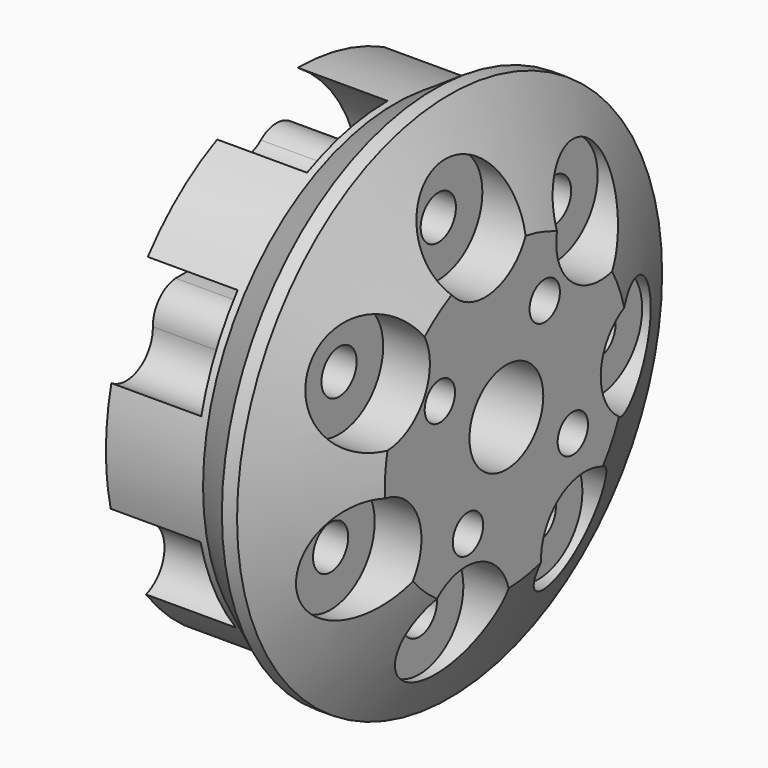
from build123d import *

# Parameters (mm, degrees)
F2_R      = 1.8415
F3_DEPTH  = 7.5184
F4_R      = 1.8415
F5_DEPTH  = 17.4508
F7_R      = 4.6101
F8_DEPTH  = 3.9116
F9_R      = 3.8608
F9_R_2    = 1.5875
F10_DEPTH = 17.4508


with BuildPart() as f1:
    # F0 (on Top) → F1 (revolve)
    with BuildSketch(Plane.XY):
        Polygon((17.4498, -12.7), (17.4498, 0), (11.43, 0), (11.43, -11.811), (0, -11.811), (0, -20.066), (8.128, -20.066), (11.43, -22.225), (12.7, -22.225), align=None)
    revolve(axis=Axis((20.313933, 0, 0), (-1, 0, 0)))

    # F2 (on Right) → F3 (cut)
    with BuildSketch(Plane.YZ):
        with BuildLine():
            ThreePointArc((2.024468, 11.636204), (4.042106, 10.179013), (6.509765, 9.855084))
            ThreePointArc((6.509765, 9.855084), (4.390168, 15.68432), (0, 20.066))
            ThreePointArc((0, 20.066), (-4.734143, 21.484435), (-8.433678, 18.20762))
            ThreePointArc((-8.433678, 18.20762), (-6.723784, 15.872719), (-3.862274, 16.305458))
            ThreePointArc((-3.862274, 16.305458), (-2.055952, 16.890868), (-0.345138, 16.067084))
            ThreePointArc((-0.345138, 16.067084), (1.117901, 14.000443), (2.024468, 11.636204))
        make_face()
        with Locations((-2.228566, 14.344011)):
            Circle(F2_R)
        with BuildLine():
            ThreePointArc((-7.835316, 8.837847), (-5.438061, 9.506757), (-3.646243, 11.234083))
            ThreePointArc((-3.646243, 11.234083), (-9.525271, 13.211385), (-15.688231, 12.510946))
            ThreePointArc((-15.688231, 12.510946), (-19.748898, 9.694024), (-19.493603, 4.758551))
            ThreePointArc((-19.493603, 4.758551), (-16.602002, 4.639613), (-15.156209, 7.146639))
            ThreePointArc((-15.156209, 7.146639), (-14.487678, 8.923876), (-12.776942, 9.747823))
            ThreePointArc((-12.776942, 9.747823), (-10.248987, 9.603144), (-7.835316, 8.837847))
        make_face()
        with Locations((-12.604087, 7.200982)):
            Circle(F2_R)
        with BuildLine():
            ThreePointArc((-11.794947, -0.615589), (-10.823257, 1.675719), (-11.056556, 4.153589))
            ThreePointArc((-11.056556, 4.153589), (-16.267986, 0.790007), (-19.562903, -4.465105))
            ThreePointArc((-19.562903, -4.465105), (-19.892329, -9.396185), (-15.874447, -12.273805))
            ThreePointArc((-15.874447, -12.273805), (-13.978575, -10.087217), (-15.037209, -7.393745))
            ThreePointArc((-15.037209, -7.393745), (-16.009887, -5.762977), (-15.587448, -3.911747))
            ThreePointArc((-15.587448, -3.911747), (-13.898179, -2.025519), (-11.794947, -0.615589))
        make_face()
        with Locations((-13.488474, -5.364534)):
            Circle(F2_R)
        with BuildLine():
            ThreePointArc((-6.872742, -9.605474), (-8.05832, -7.41717), (-10.141056, -6.054643))
            ThreePointArc((-10.141056, -6.054643), (-10.760576, -12.226262), (-8.706311, -18.078841))
            ThreePointArc((-8.706311, -18.078841), (-5.056431, -21.410875), (-0.301509, -20.063735))
            ThreePointArc((-0.301509, -20.063735), (-0.828995, -17.218167), (-3.594884, -16.366488))
            ThreePointArc((-3.594884, -16.366488), (-5.476324, -16.110191), (-6.660287, -14.625692))
            ThreePointArc((-6.660287, -14.625692), (-7.081759, -12.128924), (-6.872742, -9.605474))
        make_face()
        with Locations((-4.215765, -13.890446)):
            Circle(F2_R)
        with BuildLine():
            ThreePointArc((3.224777, -11.362242), (0.774697, -10.924778), (-1.589135, -11.703605))
            ThreePointArc((-1.589135, -11.703605), (2.849767, -16.035907), (8.706311, -18.078841))
            ThreePointArc((8.706311, -18.078841), (13.587063, -17.302739), (15.498471, -12.745263))
            ThreePointArc((15.498471, -12.745263), (12.944835, -11.383486), (10.554462, -13.014932))
            ThreePointArc((10.554462, -13.014932), (9.181022, -14.326102), (7.282205, -14.326192))
            ThreePointArc((7.282205, -14.326192), (5.06737, -13.099002), (3.224777, -11.362242))
        make_face()
        with Locations((8.231501, -11.956569)):
            Circle(F2_R)
        with BuildLine():
            ThreePointArc((10.893974, -4.563009), (9.024351, -6.205806), (8.159438, -8.539514))
            ThreePointArc((8.159438, -8.539514), (14.314178, -7.770187), (19.562903, -4.465105))
            ThreePointArc((19.562903, -4.465105), (21.999221, -0.165288), (19.627787, 4.170651))
            ThreePointArc((19.627787, 4.170651), (16.97094, 3.023192), (16.756083, 0.137133))
            ThreePointArc((16.756083, 0.137133), (16.924871, -1.754167), (15.741049, -3.238778))
            ThreePointArc((15.741049, -3.238778), (13.400666, -4.205265), (10.893974, -4.563009))
        make_face()
        with Locations((14.480279, -1.019152)):
            Circle(F2_R)
        with BuildLine():
            ThreePointArc((10.359786, 5.672262), (10.478485, 3.186265), (11.763787, 1.055005))
            ThreePointArc((11.763787, 1.055005), (14.99972, 6.346643), (15.688231, 12.510946))
            ThreePointArc((15.688231, 12.510946), (13.845518, 17.096628), (8.976979, 17.94598))
            ThreePointArc((8.976979, 17.94598), (8.217581, 15.153345), (10.340031, 13.185934))
            ThreePointArc((10.340031, 13.185934), (11.923947, 12.138692), (12.346562, 10.287503))
            ThreePointArc((12.346562, 10.287503), (11.642987, 7.855123), (10.359786, 5.672262))
        make_face()
        with Locations((9.825112, 10.685707)):
            Circle(F2_R)
    extrude(amount=F3_DEPTH, mode=Mode.SUBTRACT)

    # F4 (on Right) → F5 (cut, through all)
    with BuildSketch(Plane.YZ):
        with Locations((9.825112, 10.685707)):
            Circle(F4_R)
        with Locations((-2.228566, 14.344011)):
            Circle(F4_R)
        with Locations((-12.604087, 7.200982)):
            Circle(F4_R)
        with Locations((-13.488474, -5.364534)):
            Circle(F4_R)
        with Locations((-4.215765, -13.890446)):
            Circle(F4_R)
        with Locations((8.231501, -11.956569)):
            Circle(F4_R)
        with Locations((14.480279, -1.019152)):
            Circle(F4_R)
    extrude(amount=F5_DEPTH, mode=Mode.SUBTRACT)

    # F7 (on offset) → F8 (cut)
    with BuildSketch(Plane.YZ.offset(17.4498)):
        with Locations((14.480279, -1.019152)):
            Circle(F7_R)
        with Locations((9.825112, 10.685707)):
            Circle(F7_R)
        with Locations((-2.228566, 14.344011)):
            Circle(F7_R)
        with Locations((-12.604087, 7.200982)):
            Circle(F7_R)
        with Locations((-13.488474, -5.364534)):
            Circle(F7_R)
        with Locations((-4.215765, -13.890446)):
            Circle(F7_R)
        with Locations((8.231501, -11.956569)):
            Circle(F7_R)
    extrude(amount=-F8_DEPTH, mode=Mode.SUBTRACT)

    # F9 (on offset) → F10 (cut, through all)
    with BuildSketch(Plane.YZ.offset(17.4498)):
        Circle(F9_R)
        with Locations((6.951066, -4.0132)):
            Circle(F9_R_2)
        with Locations((4.0132, 6.951066)):
            Circle(F9_R_2)
        with Locations((-6.951066, 4.0132)):
            Circle(F9_R_2)
        with Locations((-4.0132, -6.951066)):
            Circle(F9_R_2)
    extrude(amount=-F10_DEPTH, mode=Mode.SUBTRACT)


solid = f1.part
